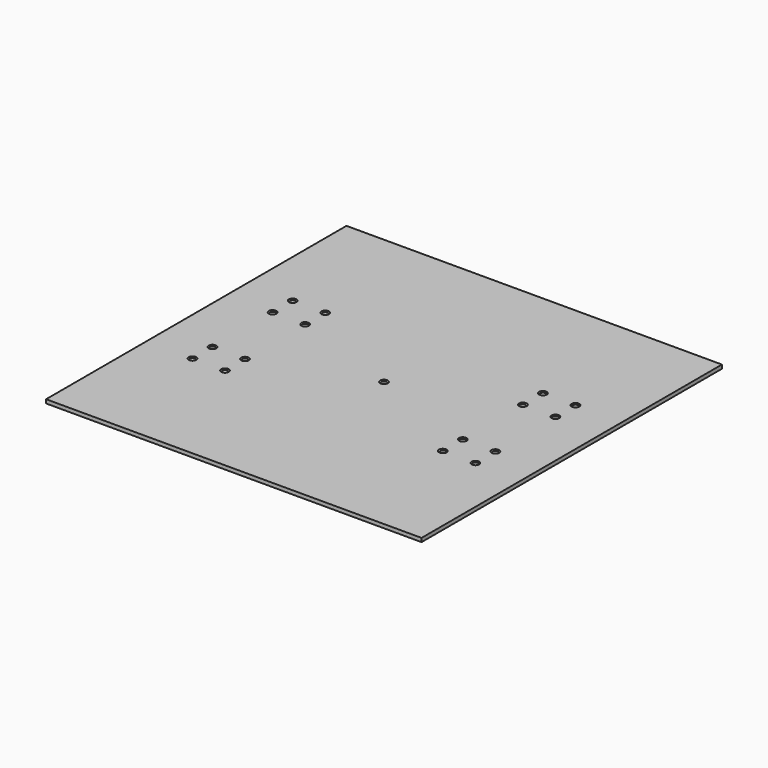
from build123d import *

# Parameters (mm, degrees)
SKETCH_W         = 300
SKETCH_H         = 300
PAD_DEPTH        = 3
HOLE_D           = 4.5
HOLE_DEPTH       = 25
HOLE_CSINK_D     = 6.1
HOLE_CSINK_ANGLE = 90


with BuildPart() as part:
    # Sketch → Pad (new body)
    with BuildSketch(Plane.XY):
        Rectangle(SKETCH_W, SKETCH_H)
    extrude(amount=PAD_DEPTH)

    # Hole
    with Locations(Plane.XY.offset(3)):
        with Locations((-113, 50), (-87, 50), (-87, 30), (-113, 30), (-113, -30), (-87, -30), (-87, -50), (-113, -50), (87, -30), (113, -30), (113, -50), (87, -50), (87, 30), (87, 50), (113, 50), (113, 30), (0, 0)):
            CounterSinkHole(HOLE_D / 2, HOLE_CSINK_D / 2, depth=HOLE_DEPTH, counter_sink_angle=HOLE_CSINK_ANGLE)


solid = part.part
